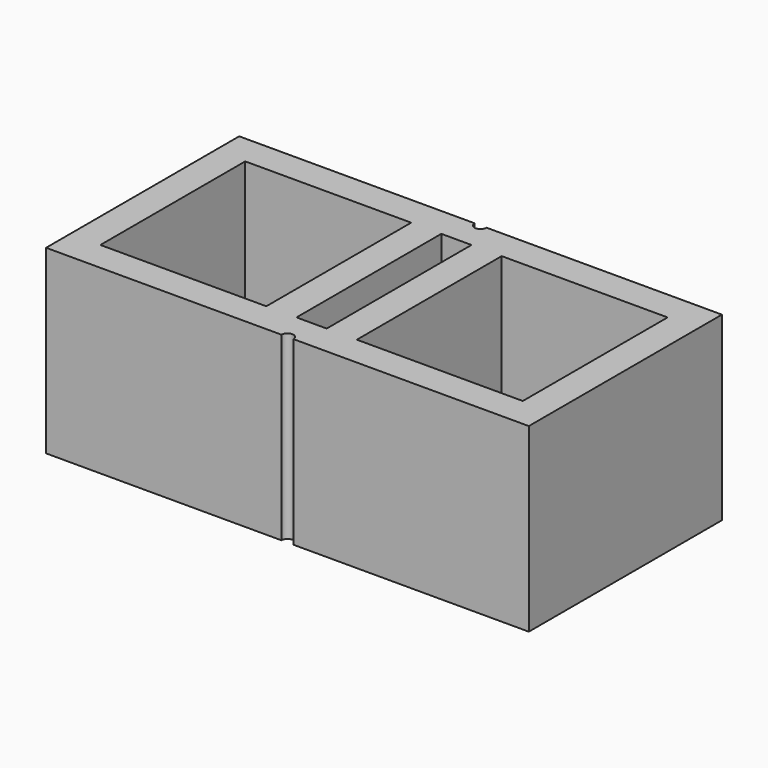
from build123d import *

# Parameters (mm, degrees)
F0_W     = 137.5
F0_H     = 150
F0_W_2   = 25
F1_DEPTH = 150


with BuildPart() as f1:
    # F0 (on Top) → F1 (new body)
    with BuildSketch(Plane.XY):
        with BuildLine():
            Line((200, -100), (200, 100))
            Line((200, 100), (5, 100))
            ThreePointArc((5, 100), (0, 95), (-5, 100))
            Line((-5, 100), (-200, 100))
            Line((-200, 100), (-200, -100))
            Line((-200, -100), (-5, -100))
            ThreePointArc((-5, -100), (0, -95), (5, -100))
            Line((5, -100), (200, -100))
        make_face()
        with Locations((-106.25, 0)):
            Rectangle(F0_W, F0_H, mode=Mode.SUBTRACT)
        Rectangle(F0_W_2, F0_H, mode=Mode.SUBTRACT)
        with Locations((106.25, 0)):
            Rectangle(F0_W, F0_H, mode=Mode.SUBTRACT)
    extrude(amount=F1_DEPTH)


solid = f1.part
